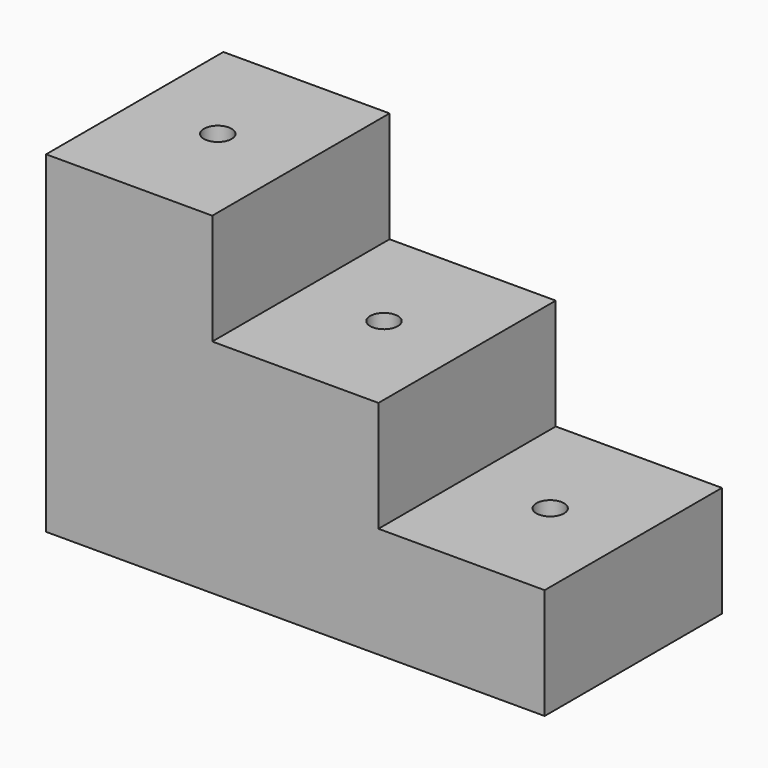
from build123d import *

# Parameters (mm, degrees)
F1_DEPTH = 400
F2_R     = 25
F3_DEPTH = 600.001


with BuildPart() as f1:
    # F0 (on Front) → F1 (new body)
    with BuildSketch(Plane.XZ):
        Polygon((-150, 300), (-450, 300), (-450, -300), (450, -300), (450, -100), (150, -100), (150, 100), (-150, 100), align=None)
    extrude(amount=F1_DEPTH)

    # F2 (on face) → F3 (cut, through all)
    with BuildSketch(Plane.XY.offset(300)):
        with Locations((-300, -200)):
            Circle(F2_R)
        with Locations((0, -200)):
            Circle(F2_R)
        with Locations((300, -200)):
            Circle(F2_R)
    extrude(amount=-F3_DEPTH, mode=Mode.SUBTRACT)


solid = f1.part
